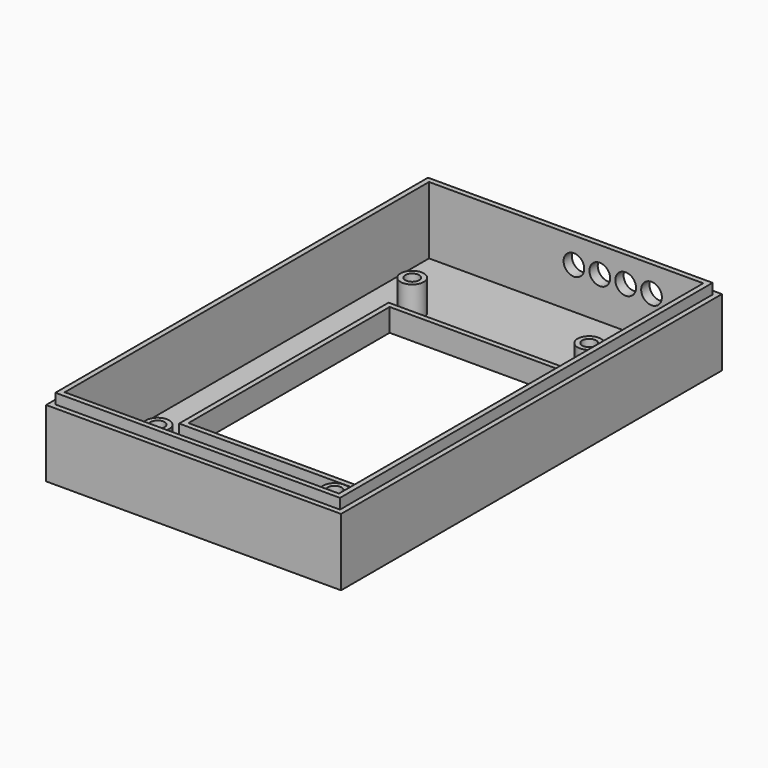
from build123d import *

# Parameters (mm, degrees)
SKETCH_W      = 57
SKETCH_H      = 92
SKETCH_W_2    = 36.7
SKETCH_H_2    = 48.6
PAD_DEPTH     = 2
SKETCH001_R   = 2.25
SKETCH001_R_2 = 1.35
PAD001_DEPTH  = 6
SKETCH002_W   = 57
SKETCH002_H   = 92
SKETCH002_W_2 = 53
SKETCH002_H_2 = 88
PAD002_DEPTH  = 11
SKETCH007_W   = 38.7
SKETCH007_H   = 50.6
SKETCH007_W_2 = 36.7
SKETCH007_H_2 = 48.6
PAD005_DEPTH  = 2.4
SKETCH008_W   = 55
SKETCH008_H   = 90
SKETCH008_W_2 = 53
SKETCH008_H_2 = 88
PAD006_DEPTH  = 2
SKETCH009_R   = 2
POCKET_DEPTH  = 5


with BuildPart() as part:
    # Sketch → Pad (new body)
    with BuildSketch(Plane.XY):
        with Locations((21.690942, -23.151951)):
            Rectangle(SKETCH_W, SKETCH_H)
        with Locations((21.690942, -23.151951)):
            Rectangle(SKETCH_W_2, SKETCH_H_2, mode=Mode.SUBTRACT)
    extrude(amount=PAD_DEPTH)

    # Sketch001 (on Face10 of Pad) → Pad001 (join)
    with BuildSketch(Plane.XY.offset(2)):
        with Locations((4.340942, 5.348049)):
            Circle(SKETCH001_R)
        with Locations((4.340942, 5.348049)):
            Circle(SKETCH001_R_2, mode=Mode.SUBTRACT)
        with Locations((38.540942, 5.348049)):
            Circle(SKETCH001_R)
        with Locations((38.540942, 5.348049)):
            Circle(SKETCH001_R_2, mode=Mode.SUBTRACT)
        with Locations((4.340942, -56.151951)):
            Circle(SKETCH001_R)
        with Locations((4.340942, -56.151951)):
            Circle(SKETCH001_R_2, mode=Mode.SUBTRACT)
        with Locations((38.540942, -56.151951)):
            Circle(SKETCH001_R)
        with Locations((38.540942, -56.151951)):
            Circle(SKETCH001_R_2, mode=Mode.SUBTRACT)
    extrude(amount=PAD001_DEPTH)

    # Sketch002 (on Face5 of Pad001) → Pad002 (join)
    with BuildSketch(Plane.XY.offset(2)):
        with Locations((21.690942, -23.151951)):
            Rectangle(SKETCH002_W, SKETCH002_H)
        with Locations((21.690942, -23.151951)):
            Rectangle(SKETCH002_W_2, SKETCH002_H_2, mode=Mode.SUBTRACT)
    extrude(amount=PAD002_DEPTH)

    # Sketch007 (on Face15 of Pad002) → Pad005 (join)
    with BuildSketch(Plane.XY.offset(2)):
        with Locations((21.690942, -23.151951)):
            Rectangle(SKETCH007_W, SKETCH007_H)
        with Locations((21.690942, -23.151951)):
            Rectangle(SKETCH007_W_2, SKETCH007_H_2, mode=Mode.SUBTRACT)
    extrude(amount=PAD005_DEPTH)

    # Sketch008 (on Face13 of Pad002) → Pad006 (join)
    with BuildSketch(Plane.XY.offset(13)):
        with Locations((21.690942, -23.151951)):
            Rectangle(SKETCH008_W, SKETCH008_H)
        with Locations((21.690942, -23.151951)):
            Rectangle(SKETCH008_W_2, SKETCH008_H_2, mode=Mode.SUBTRACT)
    extrude(amount=PAD006_DEPTH)

    # Sketch009 (on Face5 of Pad006) → Pocket (cut)
    with BuildSketch(Plane(origin=(0, 22.848049, 0), x_dir=(-1, 0, 0), z_dir=(0, 1, 0))):
        with Locations((-38.190942, 10)):
            Circle(SKETCH009_R)
        with Locations((-33.190942, 10)):
            Circle(SKETCH009_R)
        with Locations((-28.190942, 10)):
            Circle(SKETCH009_R)
        with Locations((-23.190942, 10)):
            Circle(SKETCH009_R)
    extrude(amount=-POCKET_DEPTH, mode=Mode.SUBTRACT)


solid = part.part
